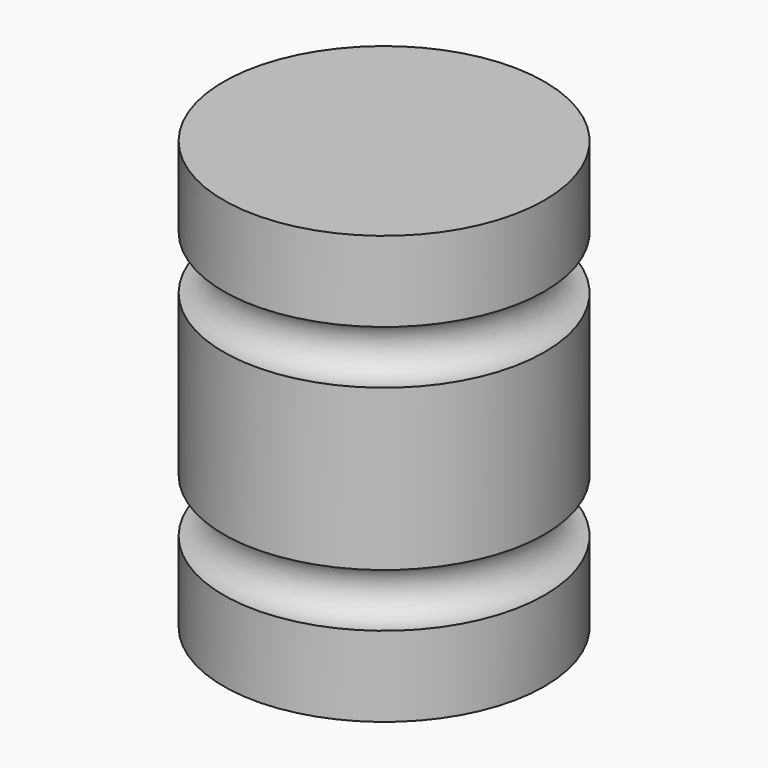
from build123d import *


with BuildPart() as f1:
    # F0 (on Front) → F1 (revolve)
    with BuildSketch(Plane.XZ):
        with BuildLine():
            Line((-38.1, 0), (0, 0))
            Line((0, 0), (0, 19.05))
            ThreePointArc((0, 19.05), (-6.35, 25.4), (0, 31.75))
            Line((0, 31.75), (0, 69.85))
            ThreePointArc((0, 69.85), (-6.35, 76.2), (0, 82.55))
            Line((0, 82.55), (0, 101.6))
            Line((0, 101.6), (-38.1, 101.6))
            Line((-38.1, 101.6), (-38.1, 0))
        make_face()
    revolve(axis=Axis((-38.1, 0, 50.8), (0, 0, 1)))


solid = f1.part
